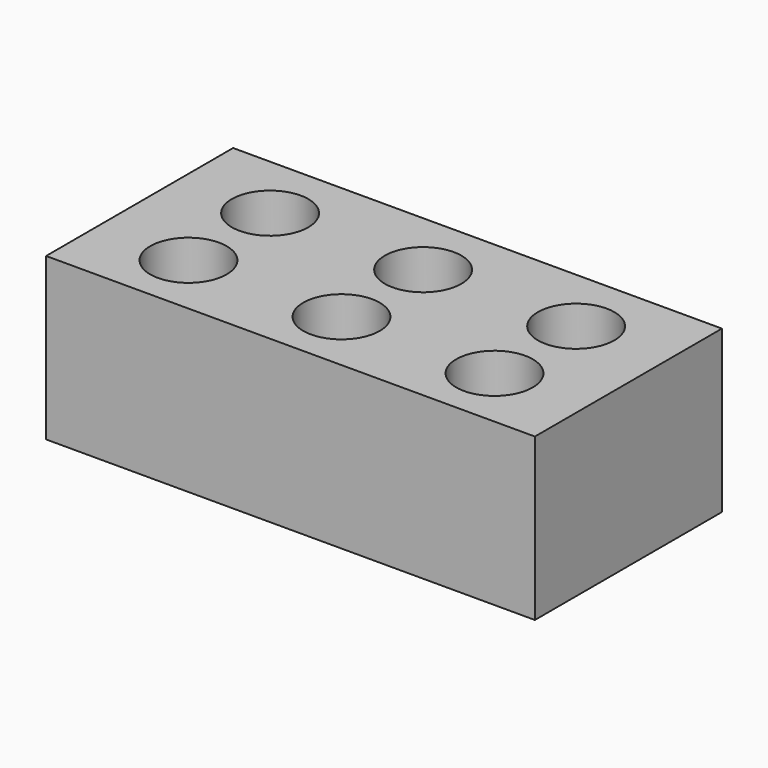
from build123d import *

# Parameters (mm, degrees)
CYLINDER001_R     = 18
CYLINDER001_DEPTH = 80
CYLINDER002_R     = 18
CYLINDER002_DEPTH = 80
CYLINDER003_R     = 18
CYLINDER003_DEPTH = 80
CYLINDER004_R     = 18
CYLINDER004_DEPTH = 80
CYLINDER005_R     = 18
CYLINDER005_DEPTH = 80
CYLINDER_R        = 18
CYLINDER_DEPTH    = 80
BOX_W             = 230
BOX_H             = 110
BOX_DEPTH         = 76


with BuildPart() as cilindre001:
    # Cylinder001 → Cylinder001 (new body)
    with BuildSketch(Plane(origin=(43, 78, 0), x_dir=(1, 0, 0), z_dir=(0, 0, 1))):
        Circle(CYLINDER001_R)
    extrude(amount=CYLINDER001_DEPTH)


with BuildPart() as cilindre002:
    # Cylinder002 → Cylinder002 (new body)
    with BuildSketch(Plane(origin=(115, 78, 0), x_dir=(1, 0, 0), z_dir=(0, 0, 1))):
        Circle(CYLINDER002_R)
    extrude(amount=CYLINDER002_DEPTH)


with BuildPart() as cilindre003:
    # Cylinder003 → Cylinder003 (new body)
    with BuildSketch(Plane(origin=(115, 30, 0), x_dir=(1, 0, 0), z_dir=(0, 0, 1))):
        Circle(CYLINDER003_R)
    extrude(amount=CYLINDER003_DEPTH)


with BuildPart() as cilindre004:
    # Cylinder004 → Cylinder004 (new body)
    with BuildSketch(Plane(origin=(187, 30, 0), x_dir=(1, 0, 0), z_dir=(0, 0, 1))):
        Circle(CYLINDER004_R)
    extrude(amount=CYLINDER004_DEPTH)


with BuildPart() as cilindre005:
    # Cylinder005 → Cylinder005 (new body)
    with BuildSketch(Plane(origin=(187, 78, 0), x_dir=(1, 0, 0), z_dir=(0, 0, 1))):
        Circle(CYLINDER005_R)
    extrude(amount=CYLINDER005_DEPTH)


with BuildPart() as fusion:
    # Cylinder → Cylinder (new body)
    with BuildSketch(Plane(origin=(43, 30, 0), x_dir=(1, 0, 0), z_dir=(0, 0, 1))):
        Circle(CYLINDER_R)
    extrude(amount=CYLINDER_DEPTH)

    # Fusion: union Cilindre001, Cilindre002, Cilindre003, Cilindre004, Cilindre005
    add(cilindre001.part)
    add(cilindre002.part)
    add(cilindre003.part)
    add(cilindre004.part)
    add(cilindre005.part)


with BuildPart() as cut:
    # Box → Box (new body)
    with BuildSketch(Plane.XY):
        with Locations((115, 55)):
            Rectangle(BOX_W, BOX_H)
    extrude(amount=BOX_DEPTH)

    # Cut: cut Fusion
    add(fusion.part, mode=Mode.SUBTRACT)


solid = cut.part
